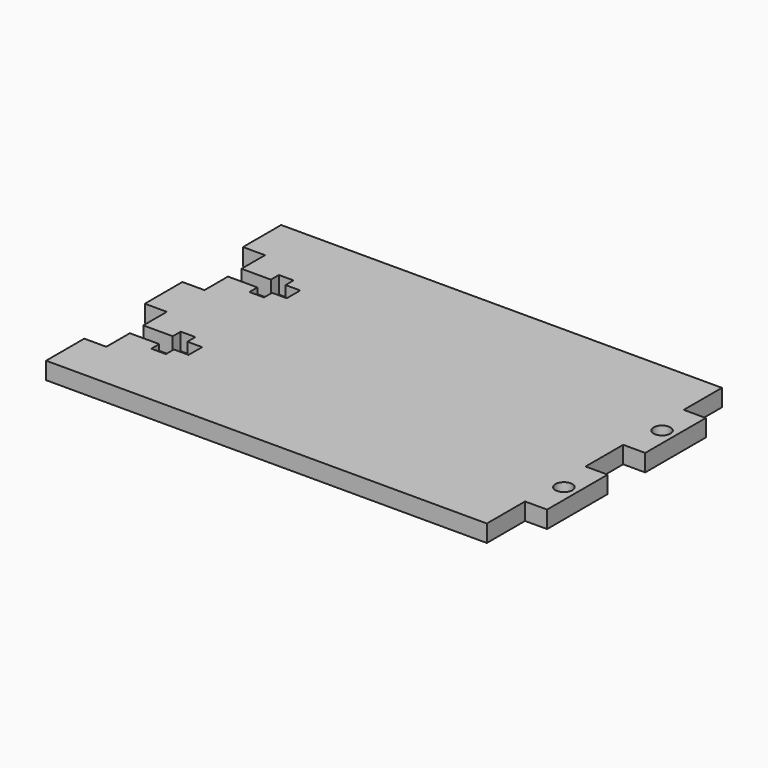
from build123d import *

# Parameters (mm, degrees)
F0_R     = 1.4605
F1_DEPTH = 2.9718


with BuildPart() as f1:
    # F0 (on Top) → F1 (new body)
    with BuildSketch(Plane.XY):
        Polygon((0, 8.255), (0, 0), (76.2, 0), (76.2, 8.255), (80.01, 8.255), (80.01, 21.336), (76.2, 21.336), (76.2, 29.464), (80.01, 29.464), (80.01, 42.545), (76.2, 42.545), (76.2, 50.8), (0, 50.8), (0, 42.545), (3.81, 42.545), (3.81, 37.465), (8.89, 37.465), (8.89, 39.1922), (11.43, 39.1922), (11.43, 37.465), (13.97, 37.465), (13.97, 34.544), (11.43, 34.544), (11.43, 32.8168), (8.89, 32.8168), (8.89, 34.544), (3.81, 34.544), (3.81, 29.464), (0, 29.464), (0, 21.336), (3.81, 21.336), (3.81, 16.256), (8.89, 16.256), (8.89, 17.9832), (11.43, 17.9832), (11.43, 16.256), (13.97, 16.256), (13.97, 13.335), (11.43, 13.335), (11.43, 11.6078), (8.89, 11.6078), (8.89, 13.335), (3.81, 13.335), (3.81, 8.255), align=None)
        with Locations((77.6859, 14.7955)):
            Circle(F0_R, mode=Mode.SUBTRACT)
        with Locations((77.6859, 36.0045)):
            Circle(F0_R, mode=Mode.SUBTRACT)
    extrude(amount=F1_DEPTH)


solid = f1.part
